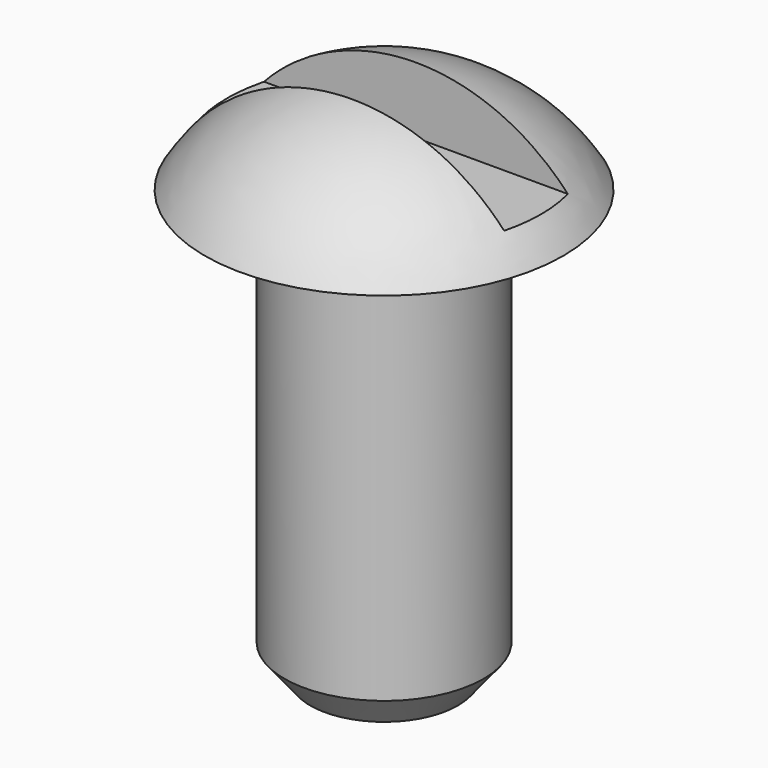
from build123d import *

# Parameters (mm, degrees)
F1_FACE_R = 3.175
F3_R      = 2.356723
F6_W      = 10.16
F6_H      = 2.54
F7_DEPTH  = 2.3876


with BuildPart() as f1:
    # F0 (on Front) → F1 (revolve)
    with BuildSketch(Plane.XZ):
        with BuildLine():
            ThreePointArc((5.715, 3.556), (3.268863, 5.883953), (0, 6.731))
            Line((0, 6.731), (0, -9.144))
            Line((0, -9.144), (3.175, -9.144))
            Line((3.175, -9.144), (3.175, 3.556))
            Line((3.175, 3.556), (5.715, 3.556))
        make_face()
    revolve(axis=Axis((0, 0, -1.2065), (0, 0, -1)))

    # F1_face (on face) → F4 section 0
    with BuildSketch(Plane(origin=(0, 0, -9.144), x_dir=(1, 0, 0), z_dir=(0, 0, -1))):
        Circle(F1_FACE_R)
    # F3 (on offset) → F4 section 1
    with BuildSketch(Plane(origin=(0, 0, -10.16), x_dir=(1, 0, 0), z_dir=(0, 0, -1))):
        Circle(F3_R)
    loft()

    # F6 (on offset) → F7 (cut)
    with BuildSketch(Plane(origin=(0, 0, 6.8834), x_dir=(1, 0, 0), z_dir=(0, 0, -1))):
        Rectangle(F6_W, F6_H)
    extrude(amount=F7_DEPTH, mode=Mode.SUBTRACT)


solid = f1.part
